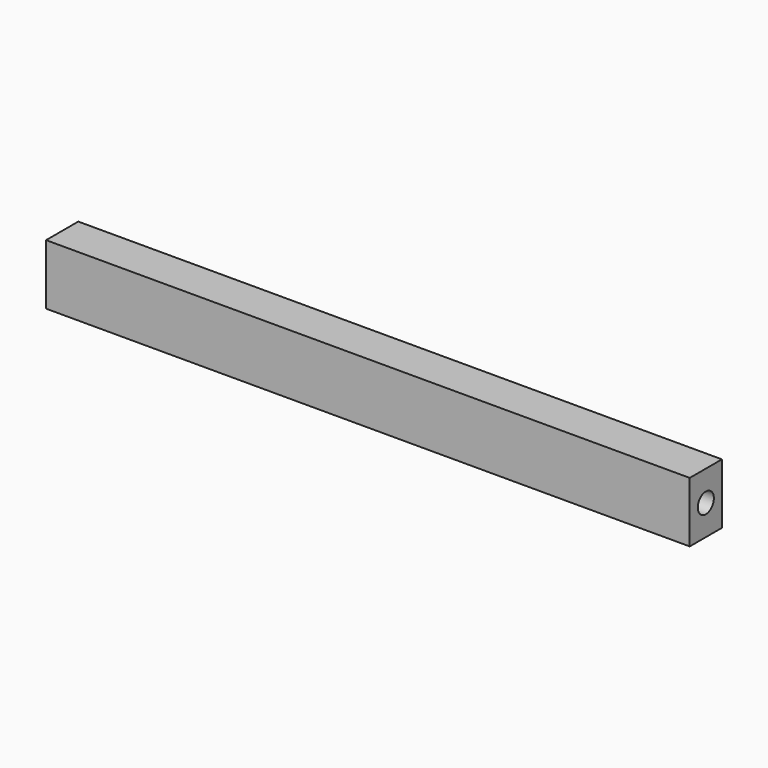
from build123d import *

# Parameters (mm, degrees)
F0_W     = 406.4
F0_H     = 38.1
F1_DEPTH = 25.4
F2_R     = 6.35
F3_DEPTH = 12.7
F4_R     = 6.35
F5_DEPTH = 12.7


with BuildPart() as f1:
    # F0 (on Front) → F1 (new body)
    with BuildSketch(Plane.XZ):
        Rectangle(F0_W, F0_H)
    extrude(amount=F1_DEPTH)

    # F2 (on face) → F3 (cut)
    with BuildSketch(Plane(origin=(-203.2, 0, 0), x_dir=(0, -1, 0), z_dir=(-1, 0, 0))):
        with Locations((12.7, 0)):
            Circle(F2_R)
    extrude(amount=-F3_DEPTH, mode=Mode.SUBTRACT)

    # F4 (on face) → F5 (cut)
    with BuildSketch(Plane.YZ.offset(203.2)):
        with Locations((-12.7, 0)):
            Circle(F4_R)
    extrude(amount=-F5_DEPTH, mode=Mode.SUBTRACT)


solid = f1.part
